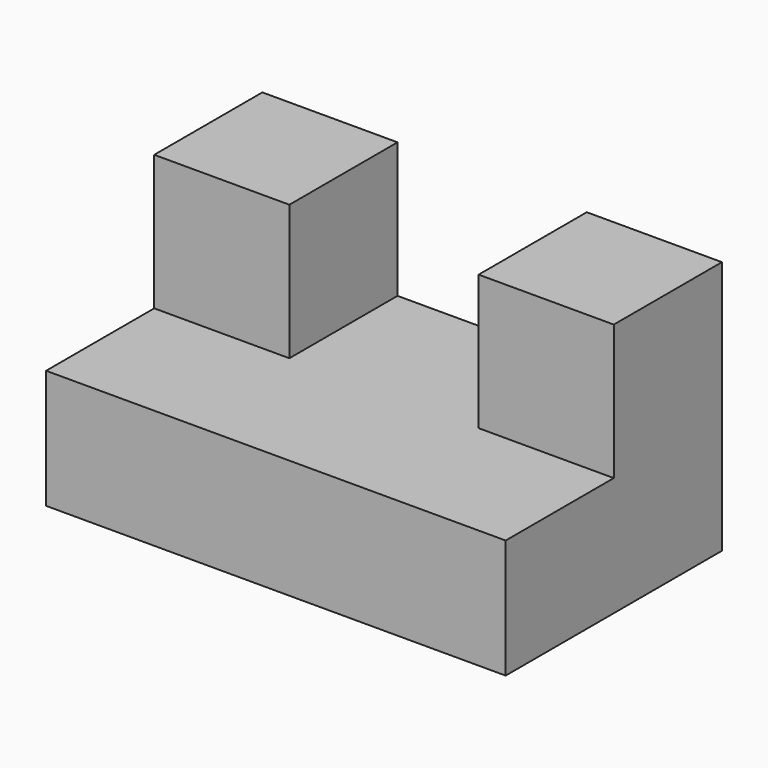
from build123d import *

# Parameters (mm, degrees)
F0_W     = 85
F0_H     = 22
F1_DEPTH = 50
F2_W     = 25
F2_H     = 25
F3_DEPTH = 25
F4_W     = 25
F4_H     = 25
F5_DEPTH = 25


with BuildPart() as f1:
    # F0 (on Front) → F1 (new body)
    with BuildSketch(Plane.XZ):
        Rectangle(F0_W, F0_H)
    extrude(amount=F1_DEPTH)

    # F2 (on face) → F3 (join)
    with BuildSketch(Plane.XY.offset(11)):
        with Locations((30, -12.5)):
            Rectangle(F2_W, F2_H)
    extrude(amount=F3_DEPTH)

    # F4 (on face) → F5 (join)
    with BuildSketch(Plane.XY.offset(11)):
        with Locations((-30, -12.5)):
            Rectangle(F4_W, F4_H)
    extrude(amount=F5_DEPTH)


solid = f1.part
